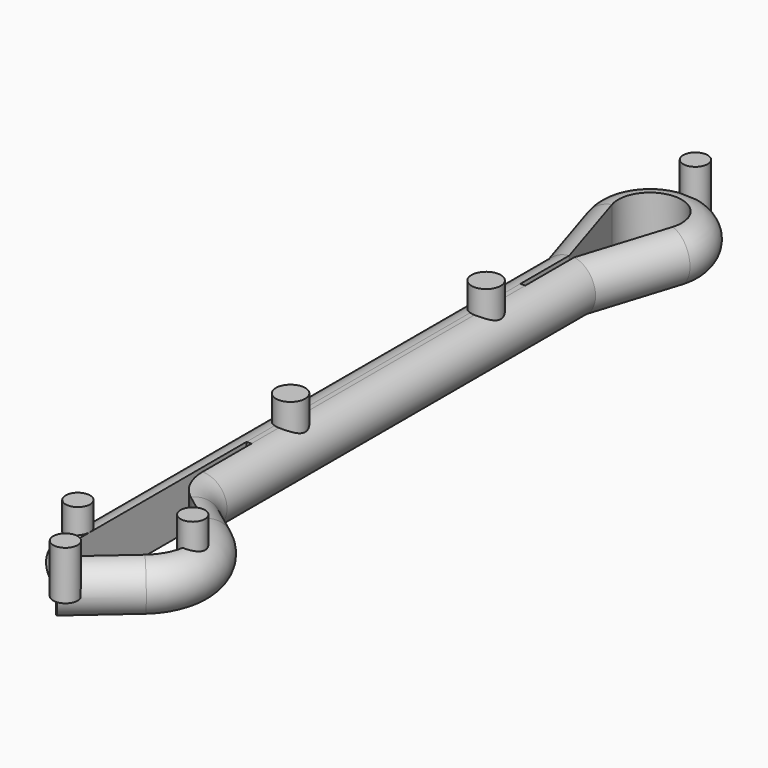
from build123d import *

# Parameters (mm, degrees)
F4_W     = 14
F4_H     = 2
F5_DEPTH = 0.2
F6_R     = 0.6
F6_R_2   = 0.5
F7_DEPTH = 2


with BuildPart() as f3:
    # F3: sweep along a path in F0
    with BuildLine(Plane.XY) as f3_path:
        Line((0, -6.5), (2.1431406292, -4.6247519495))
        ThreePointArc((2.1431406292, -4.6247519495), (2.8247129707, -3.0442874784), (2.0261314134, -1.5195985601))
        Line((2.0261314134, -1.5195985601), (0.8, -0.6))
        ThreePointArc((0.8, -0.6), (0.211145618, 0.105572809), (0, 1))
        Line((0, 1), (0, 20))
        Line((0, 20), (1.1396454369, 23.6084911359))
        ThreePointArc((1.1396454369, 23.6084911359), (-0.1, 25.3), (-1.3396454369, 23.6084911359))
        Line((-1.3396454369, 23.6084911359), (-0.2, 20))
        Line((-0.2, 20), (-0.2, 0))
        Line((-0.2, 0), (-0.2, -5.5))
    # F2 (on plane+point) → F3 (sweep)
    with BuildSketch(Plane.XZ.offset(5.5)):
        with BuildLine():
            Line((-0.2, 0), (-0.2, 1))
            ThreePointArc((-0.2, 1), (-1.2, 0), (-0.2, -1))
            Line((-0.2, -1), (-0.2, 0))
        make_face()
    sweep(path=f3_path.line, transition=Transition.RIGHT)

    # F4 (on face) → F5 (join, through all)
    with BuildSketch(Plane.YZ.offset(-0.2)):
        with Locations((10.5, 0)):
            Rectangle(F4_W, F4_H)
    extrude(amount=F5_DEPTH)

    # F6 (on Top) → F7 (join)
    with BuildSketch(Plane.XY):
        with Locations((0, 15.5)):
            Circle(F6_R)
        with Locations((0, 5.5)):
            Circle(F6_R)
        with Locations((0, 26.2)):
            Circle(F6_R_2)
        with Locations((2.8, -3)):
            Circle(F6_R_2)
        with Locations((-0.7, -4.5)):
            Circle(F6_R_2)
        with Locations((0.75, -6.95)):
            Circle(F6_R_2)
    extrude(amount=F7_DEPTH)


solid = f3.part
